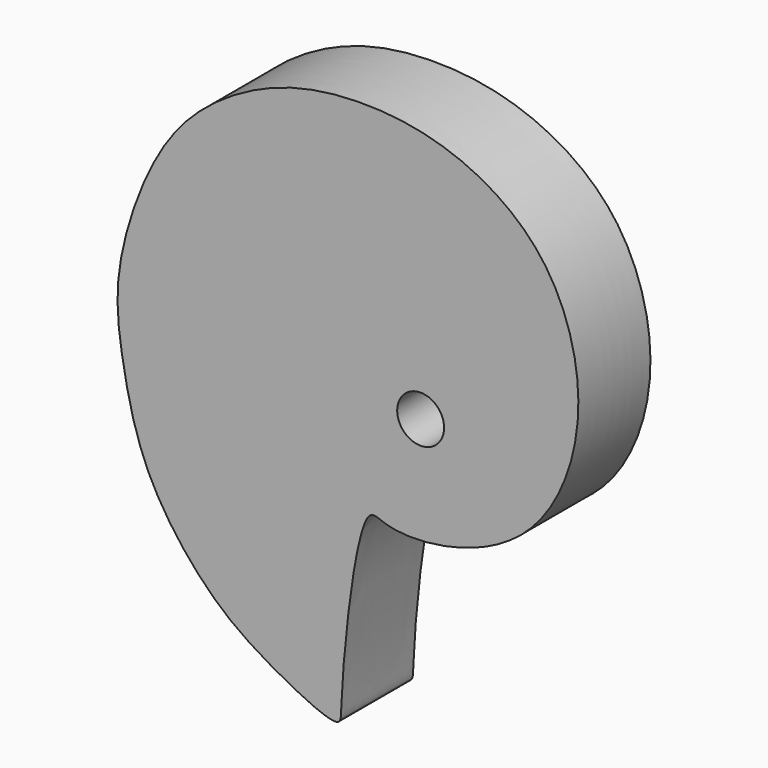
from build123d import *

# Parameters (mm, degrees)
F1_DEPTH = 12.7
F2_R     = 3.302
F3_DEPTH = 25.4


with BuildPart() as f1:
    # F0 (on Front) → F1 (new body)
    with BuildSketch(Plane.XZ):
        with BuildLine():
            add(Edge.make_bspline(
                [(-11.9052035734, -41.4162985981), (-13.3210393621, -41.5812491519), (-22.1876670174, -37.1377424353), (-30.3850818379, -31.336137276), (-39.2782300932, -19.5064282069), (-42.0818353419, -6.6879166065), (-43.4670333161, 4.0545849723), (-38.8910288641, 18.6135460619), (-32.0831637179, 28.3871906861), (-20.8070472352, 35.2061376246), (-8.7653808333, 37.109593737), (4.902031605, 35.4288964493), (19.1967961908, 26.375724295), (24.3773287346, 7.1512440834), (16.7145026546, -10.7959063435), (2.3009894241, -15.57323886), (-4.9768321365, -14.934991123), (-8.9005873278, -12.3275317848), (-11.4752804924, -38.2910733682), (-11.1277971752, -41.3257276314), (-11.9052035734, -41.4162985981)],
                knots=[0, 0, 0, 0, 0.0507455699, 0.1047815099, 0.1653861848, 0.2232203034, 0.2759747297, 0.3376915849, 0.3932251781, 0.4502445254, 0.5059119277, 0.5648601493, 0.6288697788, 0.6981294167, 0.7663732277, 0.8270676911, 0.8695055864, 0.8928454743, 0.9721366482, 1, 1, 1, 1], degree=3))
        make_face()
    extrude(amount=F1_DEPTH)

    # F2 (on face) → F3 (cut)
    with BuildSketch(Plane.XZ.offset(12.7)):
        Circle(F2_R)
    extrude(amount=-F3_DEPTH, mode=Mode.SUBTRACT)


solid = f1.part
